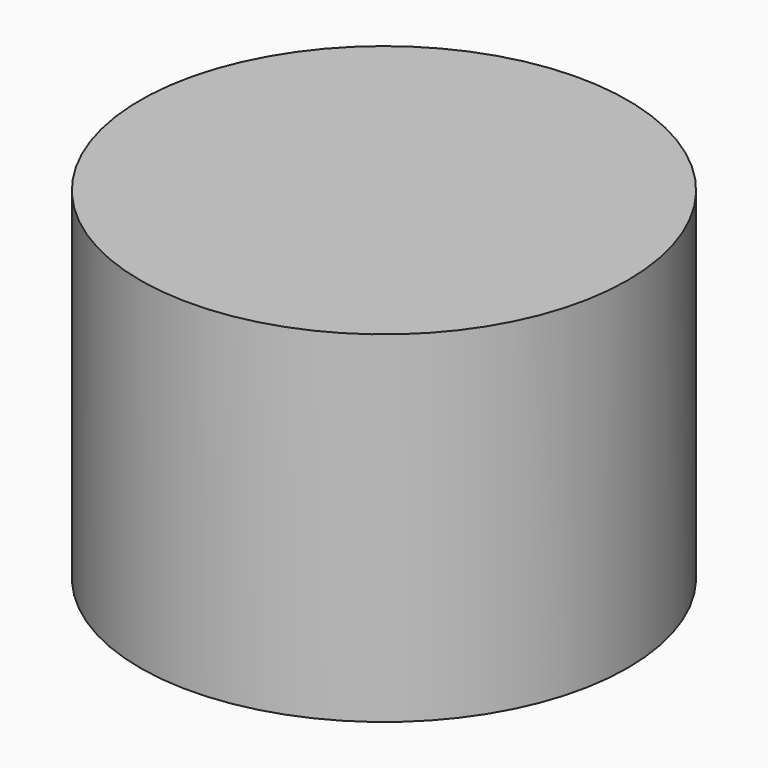
from build123d import *

# Parameters (mm, degrees)
PAD001_DEPTH = 250
PAD_DEPTH    = 50


with BuildPart() as air:
    # Sketch009 → Revolution003 (revolve)
    with BuildSketch(Plane.XZ):
        with BuildLine():
            Line((0, 2500), (2000, 2500))
            Line((2000, 2500), (2000, -300))
            Line((500, -300), (2000, -300))
            ThreePointArc((0, -600), (291.547595, -519.245991), (500, -300))
            Line((0, -600), (0, 2500))
        make_face()
    revolve(axis=Axis((0, 0, 0), (0, 0, 1)))


with BuildPart() as pad001:
    # Sketch002 → Pad001 (new body, symmetric)
    with BuildSketch(Plane.XZ):
        with BuildLine():
            ThreePointArc((35.355339, 1485.355339), (0, 1500), (-35.355339, 1485.355339))
            ThreePointArc((-35.355339, 1485.355339), (0, 1400), (35.355339, 1485.355339))
        make_face()
    extrude(amount=PAD001_DEPTH, both=True)


with BuildPart() as pad:
    # Sketch001 → Pad (new body, symmetric)
    with BuildSketch(Plane.XZ):
        with BuildLine():
            ThreePointArc((100, 1450), (70.710678, 1520.710678), (0, 1550))
            ThreePointArc((0, 1550), (-70.710679, 1520.710678), (-100, 1449.999998))
            Line((-100, 1449.999998), (-100, 1300))
            Line((-100, 1300), (0, 1300))
            Line((100, 1300), (0, 1300))
            Line((100, 1450), (100, 1300))
        make_face()
    extrude(amount=PAD_DEPTH, both=True)


with BuildPart() as bell02:
    # Sketch → Revolution (revolve)
    with BuildSketch(Plane.XZ):
        with BuildLine():
            ThreePointArc((386.528, 1262.792536), (193.582712, 1279.44356), (0, 1285))
            Line((0, 1335), (0, 1285))
            ThreePointArc((400, 1302.792536), (200.647278, 1326.935126), (0, 1335))
            ThreePointArc((500, 0), (536.618002, 658.044909), (400, 1302.792536))
            Line((500, 0), (450, 0))
            ThreePointArc((450, 0), (510.93758, 636.054339), (386.528, 1262.792536))
        make_face()
    revolve(axis=Axis((0, 0, 0), (0, 0, 1)))

    # Fusion: union Pad
    add(pad.part)

    # Cut: cut Pad001
    add(pad001.part, mode=Mode.SUBTRACT)


solid = Compound([air.part, bell02.part])
